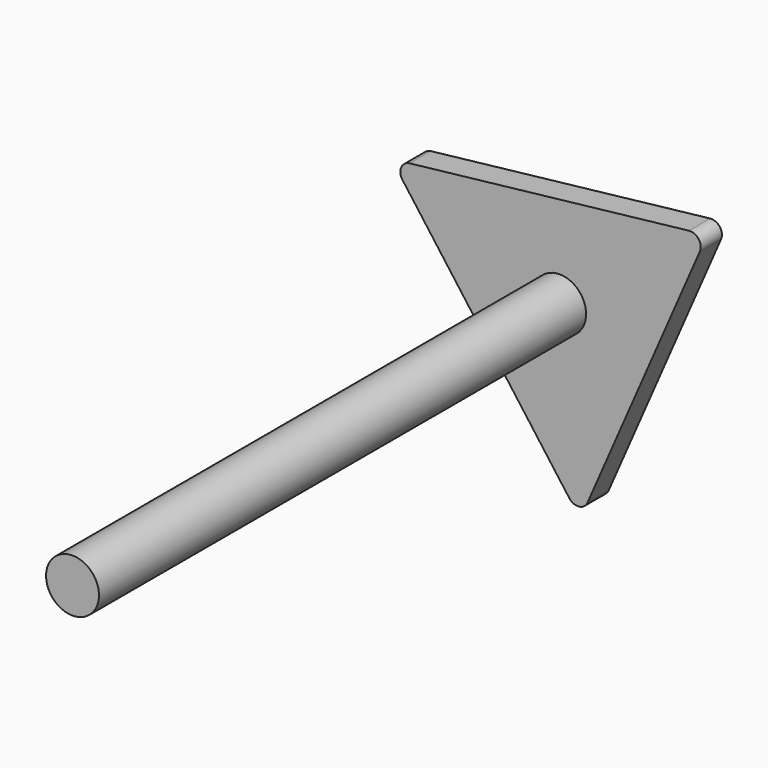
from build123d import *

# Parameters (mm, degrees)
F0_R     = 12.7
F1_DEPTH = 12.7
F2_DEPTH = 304.8


with BuildPart() as f1:
    # F0 (on Front) → F1 (new body)
    with BuildSketch(Plane.XZ):
        with BuildLine():
            Line((13.385539, -79.367668), (67.267937, 44.197556))
            ThreePointArc((67.267937, 44.197556), (66.698178, 49.245503), (62.041647, 51.276051))
            Line((62.041647, 51.276051), (-71.910175, 36.156965))
            ThreePointArc((-71.910175, 36.156965), (-75.996946, 33.139565), (-75.427186, 28.091617))
            Line((-75.427186, 28.091617), (4.642237, -80.35452))
            ThreePointArc((4.642237, -80.35452), (9.298768, -82.385068), (13.385539, -79.367668))
        make_face()
        Circle(F0_R, mode=Mode.SUBTRACT)
    extrude(amount=F1_DEPTH)

    # F0 (on Front) → F2 (join)
    with BuildSketch(Plane.XZ):
        Circle(F0_R)
    extrude(amount=F2_DEPTH)


solid = f1.part
